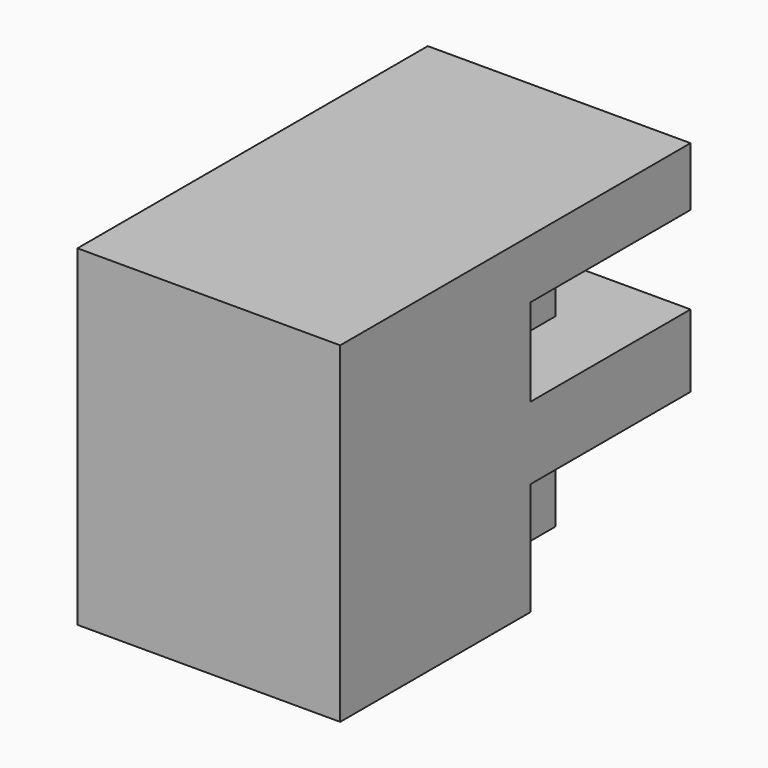
from build123d import *

# Parameters (mm, degrees)
F0_W     = 2100
F0_H     = 2650
F1_DEPTH = 1750
F5_W     = 1800
F5_H     = 900
F5_H_2   = 700
F6_DEPTH = 600
F7_W     = 1000
F7_H     = 900
F7_H_2   = 700
F8_DEPTH = 600


with BuildPart() as f1:
    # F0 (on Front) → F1 (new body, symmetric)
    with BuildSketch(Plane.XZ):
        Rectangle(F0_W, F0_H)
    extrude(amount=F1_DEPTH, both=True)

    # F5 (on face) → F6 (cut)
    with BuildSketch(Plane(origin=(0, 1750, 0), x_dir=(-1, 0, 0), z_dir=(0, 1, 0))):
        with Locations((-150, -875)):
            Rectangle(F5_W, F5_H)
        with Locations((-150, 505)):
            Rectangle(F5_W, F5_H_2)
    extrude(amount=-F6_DEPTH, mode=Mode.SUBTRACT)

    # F7 (on face) → F8 (cut)
    with BuildSketch(Plane.YZ.offset(1050)):
        with Locations((650, -875)):
            Rectangle(F7_W, F7_H)
        with Locations((650, 505)):
            Rectangle(F7_W, F7_H_2)
    extrude(amount=-F8_DEPTH, mode=Mode.SUBTRACT)


solid = f1.part
